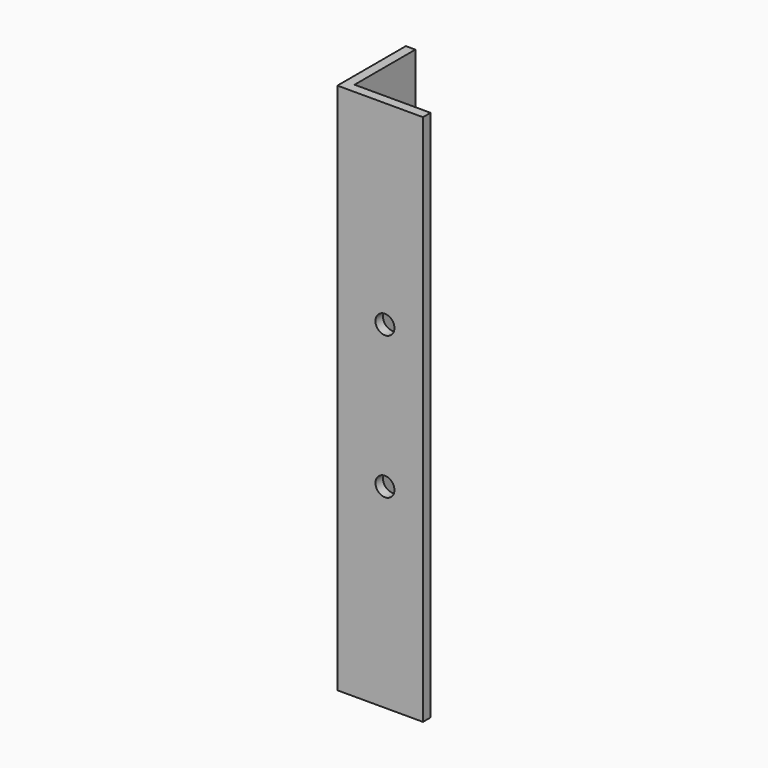
from build123d import *

# Parameters (mm, degrees)
F1_DEPTH = 56
F2_R     = 1
F3_DEPTH = 1
F4_R     = 1
F5_DEPTH = 1


with BuildPart() as f1:
    # F0 (on Top) → F1 (new body)
    with BuildSketch(Plane.XY):
        Polygon((0, 9), (0, 0), (9, 0), (9, 1), (1, 1), (1, 9), align=None)
    extrude(amount=F1_DEPTH)

    # F2 (on face) → F3 (cut, through all)
    with BuildSketch(Plane.XZ):
        with Locations((5, 35.5)):
            Circle(F2_R)
        with Locations((5, 20.5)):
            Circle(F2_R)
    extrude(amount=-F3_DEPTH, mode=Mode.SUBTRACT)

    # F4 (on face) → F5 (cut, through all)
    with BuildSketch(Plane(origin=(0, 0, 0), x_dir=(0, -1, 0), z_dir=(-1, 0, 0))):
        with Locations((-5, 35.5)):
            Circle(F4_R)
        with Locations((-5, 20.5)):
            Circle(F4_R)
    extrude(amount=-F5_DEPTH, mode=Mode.SUBTRACT)


solid = f1.part
